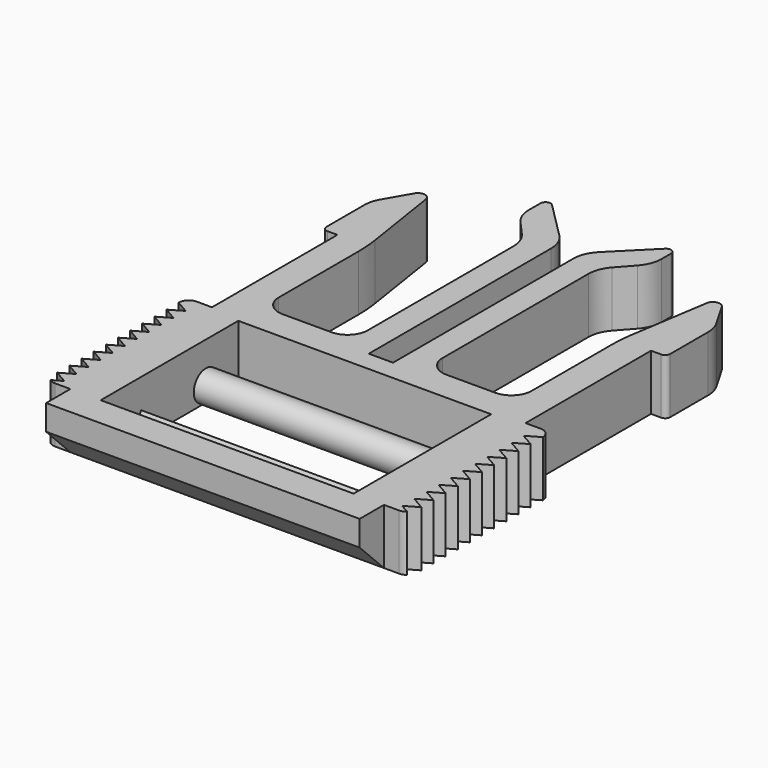
from build123d import *

# Parameters (mm, degrees)
F0_W     = 25
F0_H     = 17
F1_DEPTH = 5.5
F3_DEPTH = 25
F5_DEPTH = 32.501
F7_DEPTH = 5.5
F9_DEPTH = 5.501


with BuildPart() as f1:
    # F0 (on Top) → F1 (new body)
    with BuildSketch(Plane.XY):
        with BuildLine():
            Line((-15.5, -24.3527164447), (15.5, -24.3527164447))
            Line((15.5, -24.3527164447), (15.5, 11.6472835553))
            Line((15.5, 11.6472835553), (16.5, 11.6472835553))
            ThreePointArc((16.5, 11.6472835553), (16.8535533906, 11.7937301647), (17, 12.1472835553))
            Line((17, 12.1472835553), (17, 16.843435978))
            ThreePointArc((17, 16.843435978), (16.8977774789, 17.6198931134), (16.5980762114, 18.343435978))
            Line((16.5980762114, 18.343435978), (15.1841674029, 20.7923978715))
            ThreePointArc((15.1841674029, 20.7923978715), (14.4494876631, 21.1305094363), (13.8862846459, 20.5500991403))
            Line((13.8862846459, 20.5500991403), (12.678607693, 12.7943144757))
            ThreePointArc((12.678607693, 12.7943144757), (12.5447185816, 11.6438227741), (12.5, 10.4864301451))
            Line((12.5, 10.4864301451), (12.5, 0.6472835553))
            ThreePointArc((12.5, 0.6472835553), (11.9142135624, -0.766930007), (10.5, -1.3527164447))
            Line((10.5, -1.3527164447), (5.7, -1.3527164447))
            ThreePointArc((5.7, -1.3527164447), (4.2857864376, -0.766930007), (3.7, 0.6472835553))
            Line((3.7, 0.6472835553), (3.7, 18.6472835553))
            ThreePointArc((3.7, 18.6472835553), (3.8975072906, 19.7178136174), (4.4640230758, 20.6473853514))
            Line((4.4640230758, 20.6473853514), (5.7959697488, 22.1364105755))
            ThreePointArc((5.7959697488, 22.1364105755), (6.362485534, 23.0659823095), (6.5599928246, 24.1365123716))
            Line((6.5599928246, 24.1365123716), (6.5599928246, 25.3001695988))
            ThreePointArc((6.5599928246, 25.3001695988), (6.2513345408, 25.762109365), (5.706439434, 25.6537229894))
            Line((5.706439434, 25.6537229894), (2.0786796564, 22.0259632118))
            ThreePointArc((2.0786796564, 22.0259632118), (1.4283614025, 21.0526931653), (1.2, 19.9046428682))
            Line((1.2, 19.9046428682), (1.2, -2.3527164447))
            Line((1.2, -2.3527164447), (-1.2, -2.3527164447))
            Line((-1.2, -2.3527164447), (-1.2, 20.1675462621))
            ThreePointArc((-1.2, 20.1675462621), (-1.4283614025, 21.3155965592), (-2.0786796564, 22.2888666056))
            Line((-2.0786796564, 22.2888666056), (-5.706439434, 25.9166263832))
            ThreePointArc((-5.706439434, 25.9166263832), (-6.2513345408, 26.0250127589), (-6.5599928246, 25.5630729926))
            Line((-6.5599928246, 25.5630729926), (-6.5599928246, 24.1365123716))
            ThreePointArc((-6.5599928246, 24.1365123716), (-6.362485534, 23.0659823095), (-5.7959697488, 22.1364105755))
            Line((-5.7959697488, 22.1364105755), (-4.4640230758, 20.6473853514))
            ThreePointArc((-4.4640230758, 20.6473853514), (-3.8975072906, 19.7178136174), (-3.7, 18.6472835553))
            Line((-3.7, 18.6472835553), (-3.7, 0.6472835553))
            ThreePointArc((-3.7, 0.6472835553), (-4.2857864376, -0.766930007), (-5.7, -1.3527164447))
            Line((-5.7, -1.3527164447), (-10.5, -1.3527164447))
            ThreePointArc((-10.5, -1.3527164447), (-11.9142135624, -0.766930007), (-12.5, 0.6472835553))
            Line((-12.5, 0.6472835553), (-12.5, 10.4864301451))
            ThreePointArc((-12.5, 10.4864301451), (-12.5447185816, 11.6438227741), (-12.678607693, 12.7943144757))
            Line((-12.678607693, 12.7943144757), (-13.8862846459, 20.5500991403))
            ThreePointArc((-13.8862846459, 20.5500991403), (-14.4494876631, 21.1305094363), (-15.1841674029, 20.7923978715))
            Line((-15.1841674029, 20.7923978715), (-16.5980762114, 18.343435978))
            ThreePointArc((-16.5980762114, 18.343435978), (-16.8977774789, 17.6198931134), (-17, 16.843435978))
            Line((-17, 16.843435978), (-17, 12.1472835553))
            ThreePointArc((-17, 12.1472835553), (-16.8535533906, 11.7937301647), (-16.5, 11.6472835553))
            Line((-16.5, 11.6472835553), (-15.5, 11.6472835553))
            Line((-15.5, 11.6472835553), (-15.5, -24.3527164447))
        make_face()
        with Locations((0, -12.8527164447)):
            Rectangle(F0_W, F0_H, mode=Mode.SUBTRACT)
    extrude(amount=F1_DEPTH)

    # F2 (on face) → F3 (join)
    with BuildSketch(Plane.YZ.offset(-12.5)):
        Polygon((-14.8527164447, 0), (-16.3527164447, 2.5980762114), (-17.8527164447, 0), align=None)
        with BuildLine():
            ThreePointArc((-6.8527164447, 1.5), (-9.4133766164, 2.5606601718), (-8.3527164447, 0))
            ThreePointArc((-8.3527164447, 0), (-7.2920562729, 0.4393398282), (-6.8527164447, 1.5))
        make_face()
    extrude(amount=F3_DEPTH)

    # F4 (on face) → F5 (cut, through all)
    with BuildSketch(Plane.YZ.offset(15.5)):
        Polygon((-24.3527164447, 0), (-21.3527164447, 0), (-24.3527164447, 3), align=None)
    extrude(amount=-F5_DEPTH, mode=Mode.SUBTRACT)



with BuildPart() as f7:
    # F6 (on face) → F7 (new body, through all)
    with BuildSketch(Plane.XY.offset(5.5)):
        with BuildLine():
            Line((17, -3.8527164447), (15.5, -3.8527164447))
            Line((15.5, -3.8527164447), (15.5, -21.3527164447))
            Line((15.5, -21.3527164447), (17, -21.3527164447))
            ThreePointArc((17, -21.3527164447), (17.7071067812, -21.0598232258), (18, -20.3527164447))
            Line((18, -20.3527164447), (18, -4.8527164447))
            ThreePointArc((18, -4.8527164447), (17.7071067812, -4.1456096635), (17, -3.8527164447))
        make_face()
    extrude(amount=-F7_DEPTH)

    # F8 (on face) → F9 (cut, through all)
    with BuildSketch(Plane.XY.offset(5.5)):
        Polygon((18, -6.3527164447), (18, -4.8527164447), (16.7009618943, -5.6027164447), align=None)
        Polygon((18, -21.3527164447), (18, -19.8527164447), (16.7009618943, -20.6027164447), align=None)
        Polygon((18, -19.8527164447), (18, -18.3527164447), (16.7009618943, -19.1027164447), align=None)
        Polygon((18, -18.3527164447), (18, -16.8527164447), (16.7009618943, -17.6027164447), align=None)
        Polygon((18, -16.8527164447), (18, -15.3527164447), (16.7009618943, -16.1027164447), align=None)
        Polygon((18, -15.3527164447), (18, -13.8527164447), (16.7009618943, -14.6027164447), align=None)
        Polygon((18, -13.8527164447), (18, -12.3527164447), (16.7009618943, -13.1027164447), align=None)
        Polygon((18, -12.3527164447), (18, -10.8527164447), (16.7009618943, -11.6027164447), align=None)
        Polygon((18, -10.8527164447), (18, -9.3527164447), (16.7009618943, -10.1027164447), align=None)
        Polygon((18, -9.3527164447), (18, -7.8527164447), (16.7009618943, -8.6027164447), align=None)
        Polygon((18, -7.8527164447), (18, -6.3527164447), (16.7009618943, -7.1027164447), align=None)
    extrude(amount=-F9_DEPTH, mode=Mode.SUBTRACT)


with BuildPart() as f1_1:
    add(f1.part)

    add(f7.part)  # F11 merges F7
    # F11: F7 across plane
    add(f7.part.mirror(Plane(origin=(0, -5.9573676074, 2.7906976744), x_dir=(0, 1, 0), z_dir=(1, 0, 0))))


solid = f1_1.part
